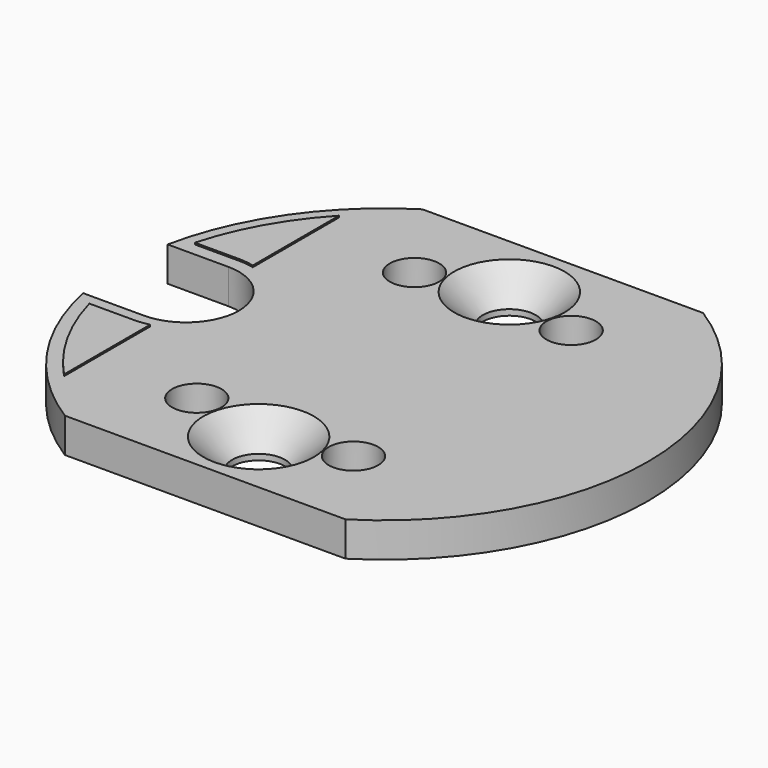
from build123d import *

# Parameters (mm, degrees)
F0_R     = 1.5
F0_R_2   = 1.6
F1_DEPTH = 2.1
F2_SIZE  = 1.75
F4_DEPTH = 0.1


with BuildPart() as f1:
    # F0 (on Top) → F1 (new body)
    with BuildSketch(Plane.XY):
        with BuildLine():
            Line((8.508672, 13.55), (-8.508672, 13.55))
            ThreePointArc((-8.508672, 13.55), (-13.153482, 9.10966), (-15.676734, 3.2))
            Line((-15.676734, 3.2), (-12, 3.2))
            ThreePointArc((-12, 3.2), (-9.737258, 2.262742), (-8.8, 0))
            ThreePointArc((-8.8, 0), (-9.737258, -2.262742), (-12, -3.2))
            Line((-12, -3.2), (-15.676734, -3.2))
            ThreePointArc((-15.676734, -3.2), (-13.153482, -9.10966), (-8.508672, -13.55))
            Line((-8.508672, -13.55), (0, -13.55))
            Line((0, -13.55), (8.508672, -13.55))
            ThreePointArc((8.508672, -13.55), (16, 0), (8.508672, 13.55))
        make_face()
        with Locations((-4.75, -8.25)):
            Circle(F0_R, mode=Mode.SUBTRACT)
        with BuildLine():
            ThreePointArc((1.6, -9.5), (1.131371, -10.631371), (0, -11.1))
            ThreePointArc((0, -11.1), (-1.131371, -8.368629), (1.6, -9.5))
        make_face(mode=Mode.SUBTRACT)
        with Locations((4.75, -8.25)):
            Circle(F0_R, mode=Mode.SUBTRACT)
        with Locations((-4.75, 8.25)):
            Circle(F0_R, mode=Mode.SUBTRACT)
        with Locations((0, 9.5)):
            Circle(F0_R_2, mode=Mode.SUBTRACT)
        with Locations((4.75, 8.25)):
            Circle(F0_R, mode=Mode.SUBTRACT)
    extrude(amount=F1_DEPTH)

    # F2
    f2_edges = [f1.edges().sort_by_distance(p)[0] for p in [
        (-1.6, -9.5, 2.1),
        (-1.6, 9.5, 2.1),
    ]]
    chamfer(f2_edges, length=F2_SIZE)

    # F3 (on face) → F4 (join)
    with BuildSketch(Plane.XY.offset(2.1)):
        with BuildLine():
            ThreePointArc((-12, 4), (-11.530048, 3.972297), (-11.066605, 3.889573))
            Line((-11.066605, 3.889573), (-11.066605, 10.419705))
            ThreePointArc((-11.066605, 10.419705), (-13.259799, 7.430863), (-14.664242, 4))
            Line((-14.664242, 4), (-12, 4))
        make_face()
        with BuildLine():
            Line((-12, -4), (-14.664242, -4))
            ThreePointArc((-14.664242, -4), (-13.259799, -7.430863), (-11.066605, -10.419705))
            Line((-11.066605, -10.419705), (-11.066605, -3.889573))
            ThreePointArc((-11.066605, -3.889573), (-11.530048, -3.972297), (-12, -4))
        make_face()
    extrude(amount=F4_DEPTH)


solid = f1.part
